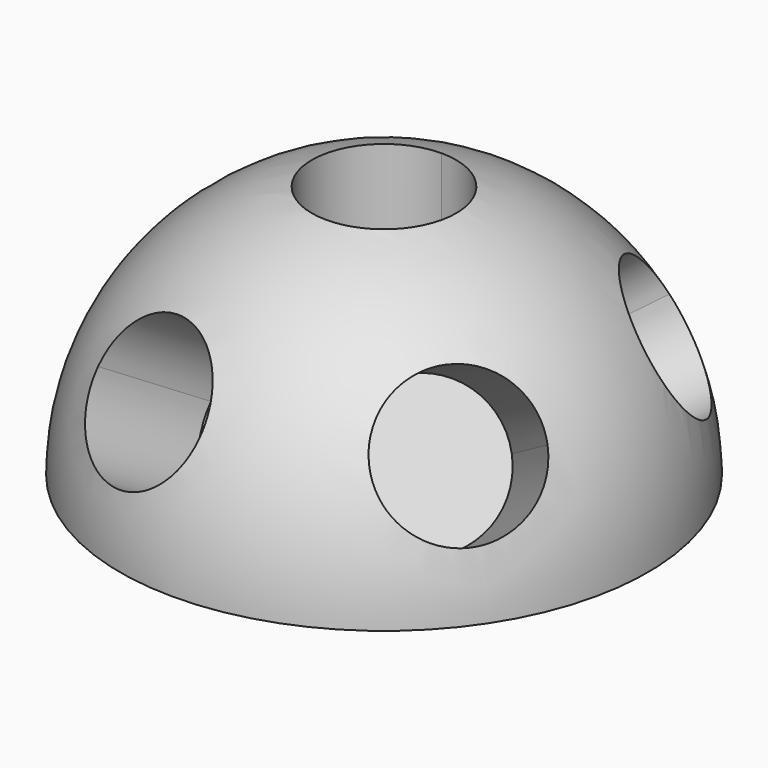
from build123d import *

# Parameters (mm, degrees)
F1_ANGLE = 180
F3_DEPTH = 38.1
F4_ANGLE = 60
F8_COUNT = 5


with BuildPart() as f1:
    # F0 (on Top) → F1 (revolve)
    with BuildSketch(Plane.XY):
        with BuildLine():
            Line((0, 0), (0, -25.4))
            ThreePointArc((0, -25.4), (25.4, 0), (0, 25.4))
            Line((0, 25.4), (0, 0))
        make_face()
    revolve(axis=Axis((0, -19.9486762285, 0), (0, -1, 0)), revolution_arc=F1_ANGLE)


with BuildPart() as f3:
    # F2 (on face) → F3 (new body)
    with BuildSketch(Plane(origin=(0, 0, 0), x_dir=(1, 0, 0), z_dir=(0, 0, -1))):
        with BuildLine():
            Line((0, -6.9453125), (0, 6.9453125))
            ThreePointArc((0, 6.9453125), (-6.9453125, 0), (0, -6.9453125))
        make_face()
        with BuildLine():
            ThreePointArc((0, -6.9453125), (4.9110775662, -4.9110775662), (6.9453125, 0))
            ThreePointArc((6.9453125, 0), (4.9110775662, 4.9110775662), (0, 6.9453125))
            Line((0, 6.9453125), (0, -6.9453125))
        make_face()
    extrude(amount=-F3_DEPTH)


with BuildPart() as f4_1:
    # F4: copy of F3
    add(f3.part.rotate(Axis((0, 0.6129407927, 0), (0, -1, 0)), F4_ANGLE))


with BuildPart() as f4_1_1:
    # F7: moved
    add(f4_1.part.moved(Location((-10.9985226281, 0, 6.35))))


with BuildPart() as f8_1:
    # F8: instance of F4_1
    add(f4_1_1.part.rotate(Axis((0, 0, 10.6922788545), (0, 0, -1)), 1 * 360 / F8_COUNT))


with BuildPart() as f8_2:
    # F8: instance of F4_1
    add(f4_1_1.part.rotate(Axis((0, 0, 10.6922788545), (0, 0, -1)), 2 * 360 / F8_COUNT))


with BuildPart() as f8_3:
    # F8: instance of F4_1
    add(f4_1_1.part.rotate(Axis((0, 0, 10.6922788545), (0, 0, -1)), 3 * 360 / F8_COUNT))


with BuildPart() as f8_4:
    # F8: instance of F4_1
    add(f4_1_1.part.rotate(Axis((0, 0, 10.6922788545), (0, 0, -1)), 4 * 360 / F8_COUNT))


with BuildPart() as f1_1:
    add(f1.part)

    # F9: cut F8_1, F8_2, F8_3, F8_4, F4_1, F3
    add(f8_1.part, mode=Mode.SUBTRACT)
    add(f8_2.part, mode=Mode.SUBTRACT)
    add(f8_3.part, mode=Mode.SUBTRACT)
    add(f8_4.part, mode=Mode.SUBTRACT)
    add(f4_1_1.part, mode=Mode.SUBTRACT)
    add(f3.part, mode=Mode.SUBTRACT)


solid = f1_1.part
